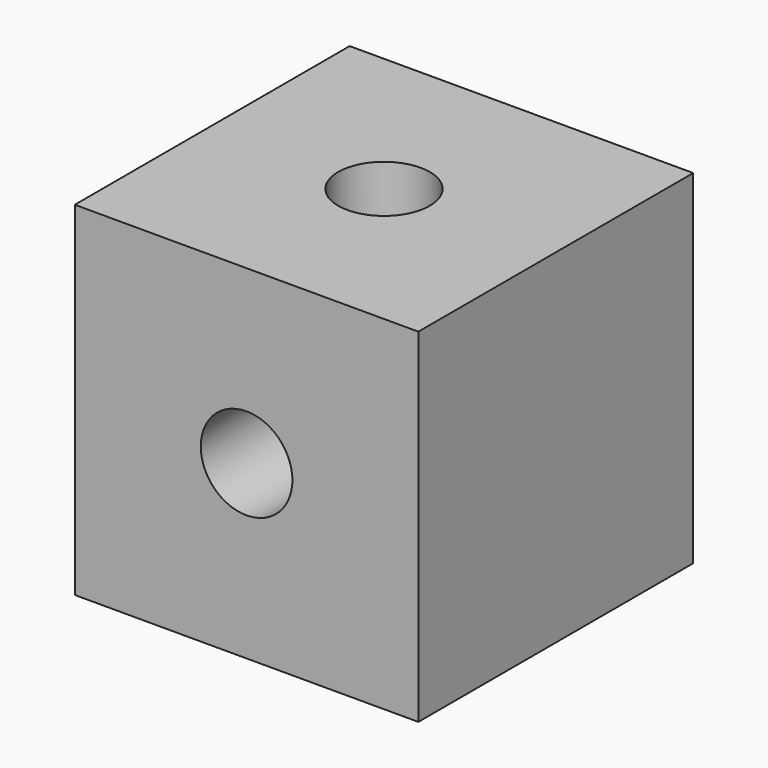
from build123d import *

# Parameters (mm, degrees)
F0_W     = 19.05
F0_H     = 19.05
F1_DEPTH = 19.05
F3_D     = 5.08
F3_DEPTH = 6.35
F3_TIP   = 1.5261859723
F5_D     = 5.08
F5_DEPTH = 6.35
F5_TIP   = 1.5261859723
F7_D     = 5.08
F7_DEPTH = 6.35
F7_TIP   = 1.5261859723


with BuildPart() as f1:
    # F0 (on Top) → F1 (new body)
    with BuildSketch(Plane.XY):
        Rectangle(F0_W, F0_H)
    extrude(amount=F1_DEPTH)

    # F3
    with Locations(Plane.XZ.offset(9.525)):
        with Locations((0, 9.525)):
            Hole(F3_D / 2, depth=F3_DEPTH)
            with Locations((0, 0, -(F3_DEPTH + F3_TIP / 2))):  # 118° drill point
                Cone(0, F3_D / 2, F3_TIP, mode=Mode.SUBTRACT)

    # F5
    with Locations(Plane(origin=(-9.525, 0, 0), x_dir=(0, -1, 0), z_dir=(-1, 0, 0))):
        with Locations((0, 9.525)):
            Hole(F5_D / 2, depth=F5_DEPTH)
            with Locations((0, 0, -(F5_DEPTH + F5_TIP / 2))):  # 118° drill point
                Cone(0, F5_D / 2, F5_TIP, mode=Mode.SUBTRACT)

    # F7
    with Locations(Plane.XY.offset(19.05)):
        with Locations((0, 0)):
            Hole(F7_D / 2, depth=F7_DEPTH)
            with Locations((0, 0, -(F7_DEPTH + F7_TIP / 2))):  # 118° drill point
                Cone(0, F7_D / 2, F7_TIP, mode=Mode.SUBTRACT)


solid = f1.part
